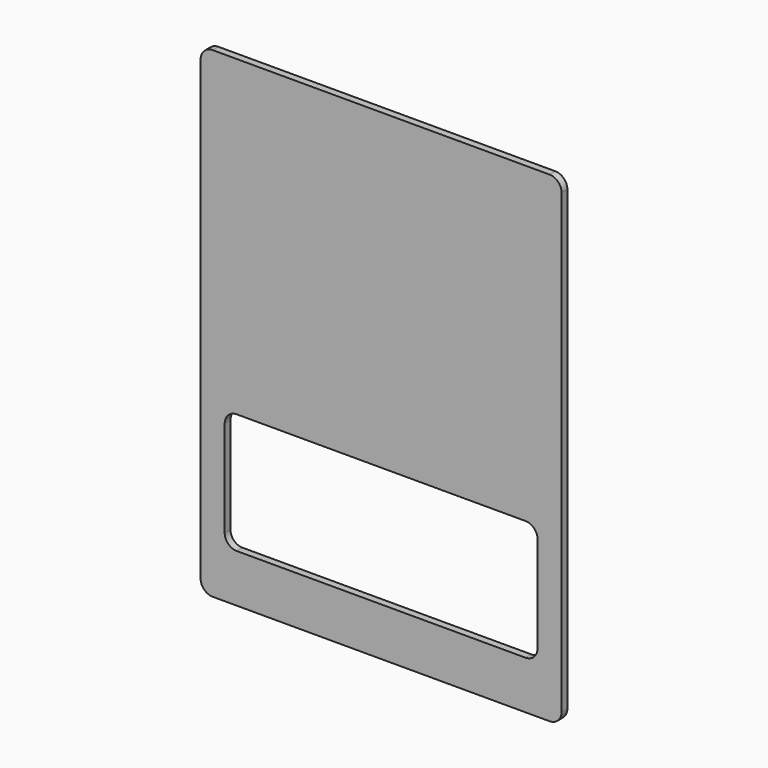
from build123d import *

# Parameters (mm, degrees)
F1_DEPTH = 3


with BuildPart() as f1:
    # F0 (on Front) → F1 (new body)
    with BuildSketch(Plane.XZ):
        with BuildLine():
            Line((70, 100), (-70, 100))
            ThreePointArc((-70, 100), (-73.535534, 98.535534), (-75, 95))
            Line((-75, 95), (-75, -95))
            ThreePointArc((-75, -95), (-73.535534, -98.535534), (-70, -100))
            Line((-70, -100), (70, -100))
            ThreePointArc((70, -100), (73.535534, -98.535534), (75, -95))
            Line((75, -95), (75, 95))
            ThreePointArc((75, 95), (73.535534, 98.535534), (70, 100))
        make_face()
        with BuildLine():
            ThreePointArc((-65, -35), (-63.535534, -31.464466), (-60, -30))
            Line((-60, -30), (60, -30))
            ThreePointArc((60, -30), (63.535534, -31.464466), (65, -35))
            Line((65, -35), (65, -75))
            ThreePointArc((65, -75), (63.535534, -78.535534), (60, -80))
            Line((60, -80), (-60, -80))
            ThreePointArc((-60, -80), (-63.535534, -78.535534), (-65, -75))
            Line((-65, -75), (-65, -35))
        make_face(mode=Mode.SUBTRACT)
        with BuildLine():
            Line((70, 100), (-70, 100))
            ThreePointArc((-70, 100), (-73.535534, 98.535534), (-75, 95))
            Line((-75, 95), (-75, -95))
            ThreePointArc((-75, -95), (-73.535534, -98.535534), (-70, -100))
            Line((-70, -100), (70, -100))
            ThreePointArc((70, -100), (73.535534, -98.535534), (75, -95))
            Line((75, -95), (75, 95))
            ThreePointArc((75, 95), (73.535534, 98.535534), (70, 100))
        make_face()
        with BuildLine():
            ThreePointArc((-65, -35), (-63.535534, -31.464466), (-60, -30))
            Line((-60, -30), (60, -30))
            ThreePointArc((60, -30), (63.535534, -31.464466), (65, -35))
            Line((65, -35), (65, -75))
            ThreePointArc((65, -75), (63.535534, -78.535534), (60, -80))
            Line((60, -80), (-60, -80))
            ThreePointArc((-60, -80), (-63.535534, -78.535534), (-65, -75))
            Line((-65, -75), (-65, -35))
        make_face(mode=Mode.SUBTRACT)
    extrude(amount=F1_DEPTH)


solid = f1.part
